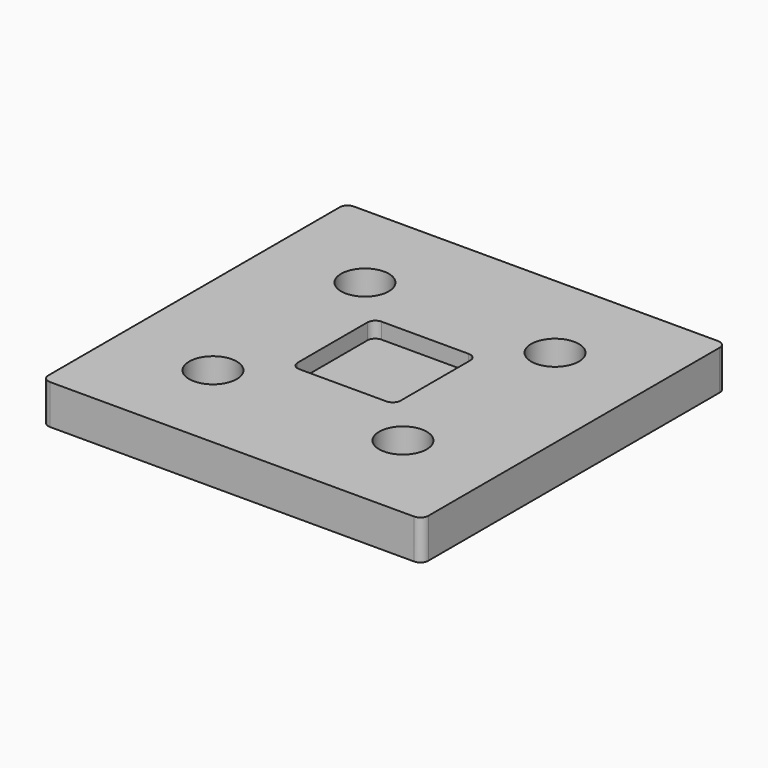
from build123d import *

# Parameters (mm, degrees)
F0_W     = 304.8
F0_H     = 304.8
F0_R     = 19.1135
F1_DEPTH = 31.75
F3_DEPTH = 12.7
F4_R     = 6.35


with BuildPart() as f1:
    # F0 (on Top) → F1 (new body)
    with BuildSketch(Plane.XY):
        Rectangle(F0_W, F0_H)
        with Locations((-76.2, -76.2)):
            Circle(F0_R, mode=Mode.SUBTRACT)
        with Locations((76.2, -76.2)):
            Circle(F0_R, mode=Mode.SUBTRACT)
        with Locations((-76.2, 76.2)):
            Circle(F0_R, mode=Mode.SUBTRACT)
        with Locations((76.2, 76.2)):
            Circle(F0_R, mode=Mode.SUBTRACT)
    extrude(amount=F1_DEPTH)

    # F2 (on face) → F3 (cut)
    with BuildSketch(Plane.XY.offset(31.75)):
        with BuildLine():
            ThreePointArc((41.275, 34.925), (39.415128, 39.415128), (34.925, 41.275))
            Line((34.925, 41.275), (-34.925, 41.275))
            ThreePointArc((-34.925, 41.275), (-39.415128, 39.415128), (-41.275, 34.925))
            Line((-41.275, 34.925), (-41.275, -34.925))
            ThreePointArc((-41.275, -34.925), (-39.415128, -39.415128), (-34.925, -41.275))
            Line((-34.925, -41.275), (34.925, -41.275))
            ThreePointArc((34.925, -41.275), (39.415128, -39.415128), (41.275, -34.925))
            Line((41.275, -34.925), (41.275, 34.925))
        make_face()
    extrude(amount=-F3_DEPTH, mode=Mode.SUBTRACT)

    # F4
    f4_edges = [f1.edges().sort_by_distance(p)[0] for p in [
        (152.4, 152.4, 15.875),
        (152.4, -152.4, 15.875),
        (-152.4, 152.4, 15.875),
        (-152.4, -152.4, 15.875),
    ]]
    fillet(f4_edges, radius=F4_R)


solid = f1.part
